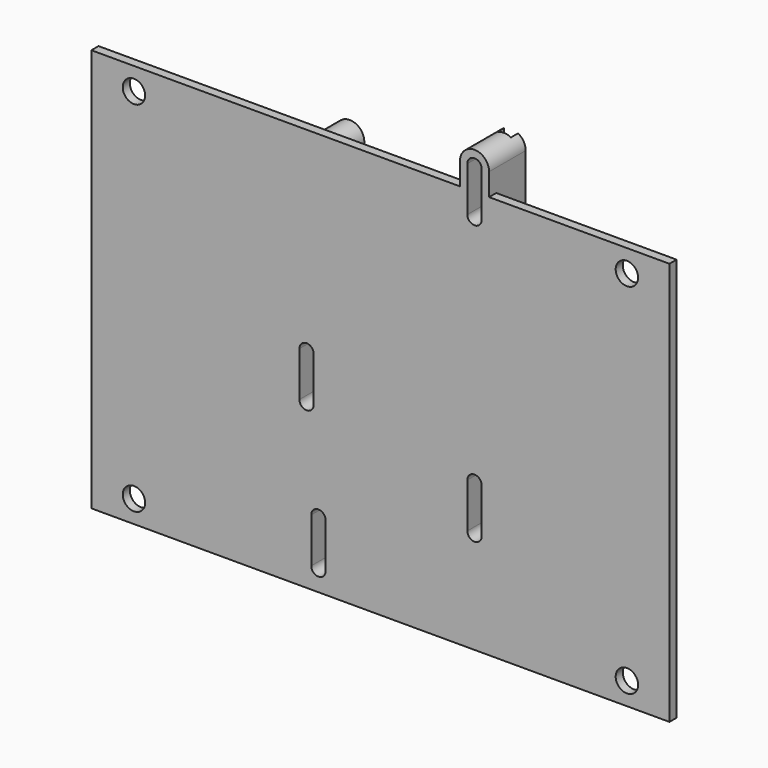
from build123d import *

# Parameters (mm, degrees)
SKETCH_W             = 129
SKETCH_H             = 90
PAD_DEPTH            = 2
SKETCH001_R          = 2.5
POCKET_DEPTH         = 2.001
SKETCH002_R          = 4.375
POCKET001_DEPTH      = 0.02
SKETCH003_R          = 3.25
PAD001_DEPTH         = 8.2
PAD001_DEPTH_BACK    = -2
POCKET002_DEPTH      = 10
POCKET002_DEPTH_BACK = -5
SKETCH005_W          = 3.16625
SKETCH005_H          = 2
POCKET003_DEPTH      = 45.001
POCKET004_DEPTH      = 53.251


with BuildPart() as part:
    # Sketch → Pad (new body)
    with BuildSketch(Plane.XZ):
        Rectangle(SKETCH_W, SKETCH_H)
    extrude(amount=PAD_DEPTH)

    # Sketch001 → Pocket (cut, through all)
    with BuildSketch(Plane.XZ):
        with Locations((55, 40)):
            Circle(SKETCH001_R)
        with Locations((-55, 40)):
            Circle(SKETCH001_R)
        with Locations((55, -40)):
            Circle(SKETCH001_R)
        with Locations((-55, -40)):
            Circle(SKETCH001_R)
    extrude(amount=POCKET_DEPTH, mode=Mode.SUBTRACT)

    # Sketch002 → Pocket001 (cut)
    with BuildSketch(Plane.XZ):
        with Locations((55, 40)):
            Circle(SKETCH002_R)
        with Locations((-55, 40)):
            Circle(SKETCH002_R)
        with Locations((55, -40)):
            Circle(SKETCH002_R)
        with Locations((-55, -40)):
            Circle(SKETCH002_R)
    extrude(amount=POCKET001_DEPTH, mode=Mode.SUBTRACT)

    # Sketch003 → Pad001 (join, two sides)
    with BuildSketch(Plane.XZ) as pad001_sk:
        with Locations((-15, 40)):
            Circle(SKETCH003_R)
        with BuildLine():
            ThreePointArc((24.25, 50), (21, 53.25), (17.75, 50))
            Line((17.75, 50), (17.75, 40))
            ThreePointArc((17.75, 40), (21, 36.75), (24.25, 40))
            Line((24.25, 40), (24.25, 50))
        make_face()
        with BuildLine():
            ThreePointArc((-13.23, 1.47), (-16.48, 4.72), (-19.73, 1.47))
            Line((-19.73, 1.47), (-19.73, -8.53))
            ThreePointArc((-19.73, -8.53), (-16.48, -11.78), (-13.23, -8.53))
            Line((-13.23, -8.53), (-13.23, 1.47))
        make_face()
        with BuildLine():
            ThreePointArc((-10.58, -30.33), (-13.83, -27.08), (-17.08, -30.33))
            Line((-17.08, -30.33), (-17.08, -40.33))
            ThreePointArc((-17.08, -40.33), (-13.83, -43.58), (-10.58, -40.33))
            Line((-10.58, -40.33), (-10.58, -30.33))
        make_face()
        with BuildLine():
            ThreePointArc((24.25, -12.15), (21, -8.9), (17.75, -12.15))
            Line((17.75, -12.15), (17.75, -22.15))
            ThreePointArc((17.75, -22.15), (21, -25.4), (24.25, -22.15))
            Line((24.25, -22.15), (24.25, -12.15))
        make_face()
    extrude(amount=-PAD001_DEPTH)
    extrude(pad001_sk.sketch, amount=-PAD001_DEPTH_BACK)

    # Sketch004 → Pocket002 (cut, two sides)
    with BuildSketch(Plane.XZ) as pocket002_sk:
        with BuildLine():
            ThreePointArc((22.6, 50), (21, 51.6), (19.4, 50))
            Line((19.4, 50), (19.4, 40))
            ThreePointArc((19.4, 40), (21, 38.4), (22.6, 40))
            Line((22.6, 40), (22.6, 50))
        make_face()
        with BuildLine():
            ThreePointArc((-14.88, 1.47), (-16.48, 3.07), (-18.08, 1.47))
            Line((-18.08, 1.47), (-18.08, -8.53))
            ThreePointArc((-18.08, -8.53), (-16.48, -10.13), (-14.88, -8.53))
            Line((-14.88, -8.53), (-14.88, 1.47))
        make_face()
        with BuildLine():
            ThreePointArc((-12.23, -30.33), (-13.83, -28.73), (-15.43, -30.33))
            Line((-15.43, -30.33), (-15.43, -40.33))
            ThreePointArc((-15.43, -40.33), (-13.83, -41.93), (-12.23, -40.33))
            Line((-12.23, -40.33), (-12.23, -30.33))
        make_face()
        with BuildLine():
            ThreePointArc((22.6, -12.15), (21, -10.55), (19.4, -12.15))
            Line((19.4, -12.15), (19.4, -22.15))
            ThreePointArc((19.4, -22.15), (21, -23.75), (22.6, -22.15))
            Line((22.6, -22.15), (22.6, -12.15))
        make_face()
    extrude(amount=-POCKET002_DEPTH, mode=Mode.SUBTRACT)
    extrude(pocket002_sk.sketch, amount=-POCKET002_DEPTH_BACK, mode=Mode.SUBTRACT)

    # Sketch005 → Pocket003 (cut, through all)
    with BuildSketch(Plane.XY):
        with Locations((20.983125, 7.2)):
            Rectangle(SKETCH005_W, SKETCH005_H)
    extrude(amount=-POCKET003_DEPTH, mode=Mode.SUBTRACT)

    # Sketch005 → Pocket004 (cut, through all)
    with BuildSketch(Plane.XY):
        with Locations((20.983125, 7.2)):
            Rectangle(SKETCH005_W, SKETCH005_H)
    extrude(amount=POCKET004_DEPTH, mode=Mode.SUBTRACT)


solid = part.part
